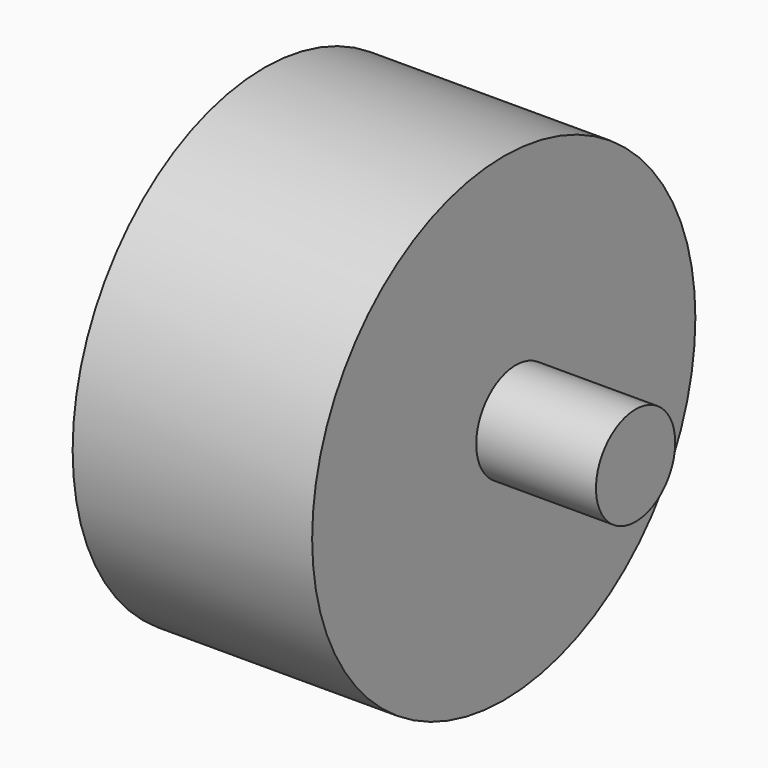
from build123d import *

# Parameters (mm, degrees)
F0_R     = 10
F1_DEPTH = 5
F2_R     = 2.067642
F3_DEPTH = 10


with BuildPart() as f1:
    # F0 (on Right) → F1 (new body, symmetric)
    with BuildSketch(Plane.YZ):
        with Locations((24.770173, 0)):
            Circle(F0_R)
    extrude(amount=F1_DEPTH, both=True)

    # F2 (on Right) → F3 (join, symmetric)
    with BuildSketch(Plane.YZ):
        with Locations((25.400065, 0)):
            Circle(F2_R)
    extrude(amount=F3_DEPTH, both=True)


solid = f1.part
